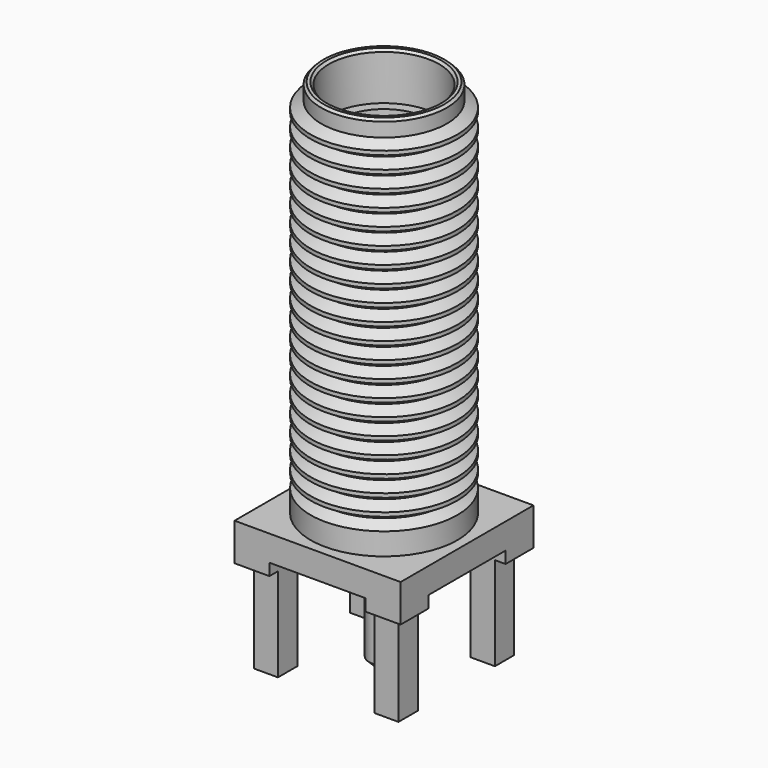
from build123d import *

# Parameters (mm, degrees)
SKETCH_W           = 7
SKETCH_H           = 7
PAD_DEPTH          = 1.58
POCKET_DEPTH       = 0.5
SKETCH002_W        = 1.02
SKETCH002_H        = 1.02
PAD001_DEPTH       = 3.94
POLARPATTERN_COUNT = 4
SKETCH003_R        = 2.03
POCKET001_DEPTH    = 0.2
SKETCH004_R        = 0.635
PAD002_DEPTH       = 4.64
CHAMFER_SIZE       = 0.2
CHAMFER001_SIZE    = 0.1
CHAMFER002_SIZE    = 0.1


with BuildPart() as part:
    # Sketch → Pad (new body)
    with BuildSketch(Plane.XY):
        Rectangle(SKETCH_W, SKETCH_H)
    extrude(amount=PAD_DEPTH)

    # Sketch001 (on Face5 of Pad) → Pocket (cut)
    with BuildSketch(Plane(origin=(0, 0, 0), x_dir=(1, 0, 0), z_dir=(0, 0, -1))):
        Polygon((-3.5, 2.03), (-2.03, 2.03), (-2.03, 3.5), (2.03, 3.5), (2.03, 2.03), (3.5, 2.03), (3.5, -2.03), (2.03, -2.03), (2.03, -3.5), (-2.03, -3.5), (-2.03, -2.03), (-3.5, -2.03), align=None)
    extrude(amount=-POCKET_DEPTH, mode=Mode.SUBTRACT)

    # Sketch002 (on Face6 of Pocket) → Pad001 (join)
    with BuildSketch(Plane(origin=(0, 0, 0), x_dir=(1, 0, 0), z_dir=(0, 0, -1))):
        with Locations((-2.54, 2.54)):
            Rectangle(SKETCH002_W, SKETCH002_H)
    pad001 = extrude(amount=PAD001_DEPTH)

    # PolarPattern: Pad001 ×4 about axis
    polarpattern_axis = Axis((0, 0, 0), (0, 0, -1))
    for i in range(1, POLARPATTERN_COUNT):
        add(pad001.rotate(polarpattern_axis, i * 360 / POLARPATTERN_COUNT))

    # Sketch003 (on Face4 of PolarPattern) → Pocket001 (cut)
    with BuildSketch(Plane(origin=(0, 0, 0.5), x_dir=(1, 0, 0), z_dir=(0, 0, -1))):
        Circle(SKETCH003_R)
    extrude(amount=-POCKET001_DEPTH, mode=Mode.SUBTRACT)

    # Sketch004 (on Face33 of Pocket001) → Pad002 (join)
    with BuildSketch(Plane(origin=(0, 0, 0.7), x_dir=(1, 0, 0), z_dir=(0, 0, -1))):
        Circle(SKETCH004_R)
    extrude(amount=PAD002_DEPTH)

    # Chamfer
    chamfer_edges = [part.edges().sort_by_distance(p)[0] for p in [
        (-0.635, 0, -3.94),
    ]]
    chamfer(chamfer_edges, length=CHAMFER_SIZE)

    # Sketch005 → Revolution (revolve)
    with BuildSketch(Plane.XZ):
        Polygon((0, 1.58), (0, 12.26), (0.48, 12.26), (0.48, 15.46), (0.63, 15.46), (0.63, 14.96), (1.9, 14.96), (1.9, 15.58), (2.325, 15.58), (2.325, 17.58), (2.65, 17.58), (2.65, 2.766921), (3.095, 2.51), (3.095, 1.58), align=None)
    revolve(axis=Axis((0, 0, 0), (0, 0, 1)))

    # Chamfer001
    chamfer001_edges = [part.edges().sort_by_distance(p)[0] for p in [
        (-2.325, 0, 17.58),
        (-2.65, 0, 17.58),
    ]]
    chamfer(chamfer001_edges, length=CHAMFER001_SIZE)

    # Chamfer002
    chamfer002_edges = [part.edges().sort_by_distance(p)[0] for p in [
        (-0.48, 0, 15.46),
    ]]
    chamfer(chamfer002_edges, length=CHAMFER002_SIZE)

    # Sketch006 → Revolution001 (revolve)
    with BuildSketch(Plane.XZ):
        Polygon((2.65, 2.791559), (3.095, 3.04848), (3.095, 3.21612), (2.65, 3.473041), align=None)
        Polygon((2.65, 3.497679), (3.095, 3.7546), (3.095, 3.92224), (2.65, 4.179161), align=None)
        Polygon((2.65, 4.203799), (3.095, 4.46072), (3.095, 4.62836), (2.65, 4.885281), align=None)
        Polygon((2.65, 4.909919), (3.095, 5.16684), (3.095, 5.33448), (2.65, 5.591401), align=None)
        Polygon((2.65, 5.616039), (3.095, 5.87296), (3.095, 6.0406), (2.65, 6.297521), align=None)
        Polygon((2.65, 6.322159), (3.095, 6.57908), (3.095, 6.74672), (2.65, 7.003641), align=None)
        Polygon((2.65, 7.734399), (3.095, 7.99132), (3.095, 8.15896), (2.65, 8.415881), align=None)
        Polygon((2.65, 7.028279), (3.095, 7.2852), (3.095, 7.45284), (2.65, 7.709761), align=None)
        Polygon((2.65, 8.440519), (3.095, 8.69744), (3.095, 8.86508), (2.65, 9.122001), align=None)
        Polygon((2.65, 9.146639), (3.095, 9.40356), (3.095, 9.5712), (2.65, 9.828121), align=None)
        Polygon((2.65, 10.558879), (3.095, 10.8158), (3.095, 10.98344), (2.65, 11.240361), align=None)
        Polygon((2.65, 9.852759), (3.095, 10.10968), (3.095, 10.27732), (2.65, 10.534241), align=None)
        Polygon((2.65, 11.971119), (3.095, 12.22804), (3.095, 12.39568), (2.65, 12.652601), align=None)
        Polygon((2.65, 11.264999), (3.095, 11.52192), (3.095, 11.68956), (2.65, 11.946481), align=None)
        Polygon((2.65, 12.677239), (3.095, 12.93416), (3.095, 13.1018), (2.65, 13.358721), align=None)
        Polygon((2.65, 13.383359), (3.095, 13.64028), (3.095, 13.80792), (2.65, 14.064841), align=None)
        Polygon((2.65, 14.089479), (3.095, 14.3464), (3.095, 14.51404), (2.65, 14.770961), align=None)
        Polygon((2.65, 15.501719), (3.095, 15.75864), (3.095, 15.92628), (2.65, 16.183201), align=None)
        Polygon((2.65, 16.207839), (3.095, 16.46476), (3.095, 16.6324), (2.65, 16.889321), align=None)
        Polygon((2.65, 14.795599), (3.095, 15.05252), (3.095, 15.22016), (2.65, 15.477081), align=None)
    revolve(axis=Axis((0, 0, 0), (0, 0, 1)))


solid = part.part
